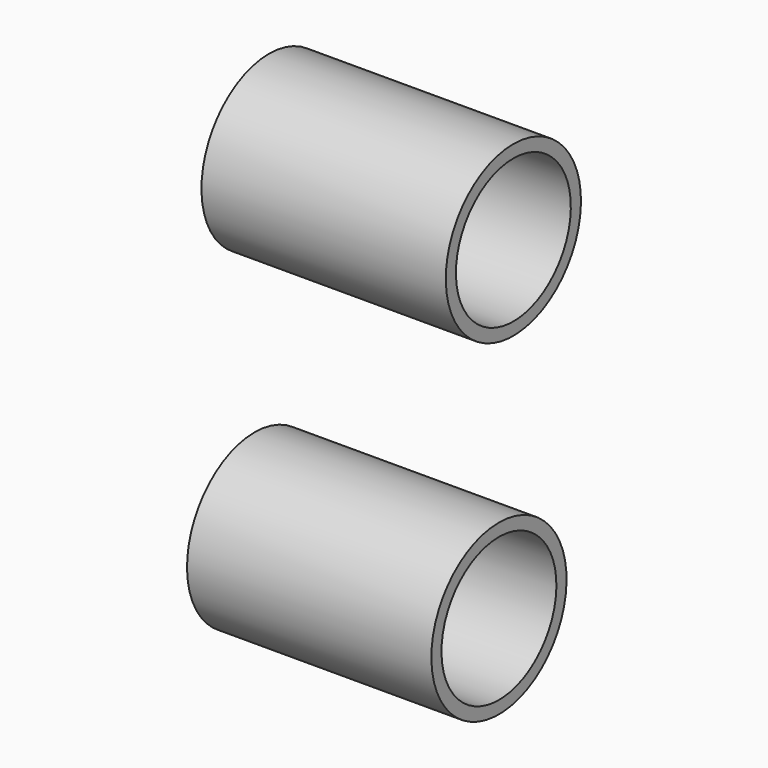
from build123d import *


with BuildPart() as f1:
    # F0 (on Front) → F1 (revolve)
    with BuildSketch(Plane.XZ):
        Polygon((-0.606218, 2), (0, 0.95), (0.063782, 0.95), (0.063782, 2.75), (0.853782, 2.75), (0.853782, 4.25), (13.853782, 4.25), (13.853782, 5), (-0.606218, 5), align=None)
    revolve(axis=Axis((2.115859, 0, 0), (1, 0, 0)))


with BuildPart() as f2:
    # F0 (on Front) → F2 (revolve)
    with BuildSketch(Plane.XZ):
        Polygon((-1.46, -18.45), (-0.853782, -19.5), (-0.79, -19.5), (-0.79, -17.25), (0, -17.25), (0, -15.75), (13, -15.75), (13, -15), (-1.46, -15), align=None)
    revolve(axis=Axis((1.154894, 0, -20), (1, 0, 0)))


solid = Compound([f1.part, f2.part])
